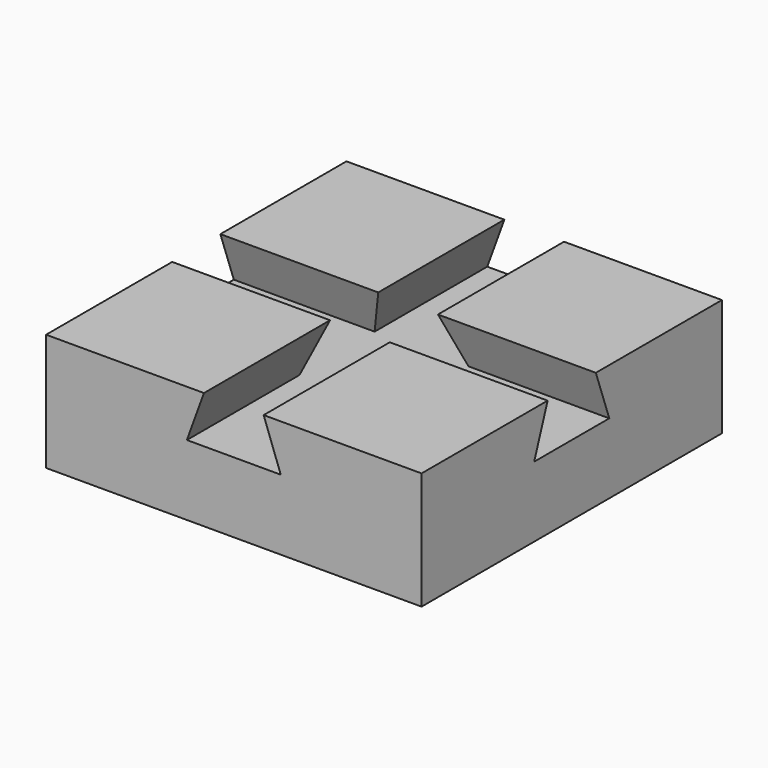
from build123d import *

# Parameters (mm, degrees)
F1_DEPTH = 80
F3_DEPTH = 80


with BuildPart() as f1:
    # F0 (on Front) → F1 (new body)
    with BuildSketch(Plane.XZ):
        Polygon((0, 25), (0, 0), (80, 0), (80, 25), (46.36, 25), (50, 15), (30, 15), (33.64, 25), align=None)
    extrude(amount=F1_DEPTH)

    # F2 (on Right) → F3 (cut)
    with BuildSketch(Plane.YZ):
        Polygon((-50, 15), (-30, 15), (-33.64, 25.158597), (-46.36, 25.158597), align=None)
    extrude(amount=F3_DEPTH, mode=Mode.SUBTRACT)


solid = f1.part
